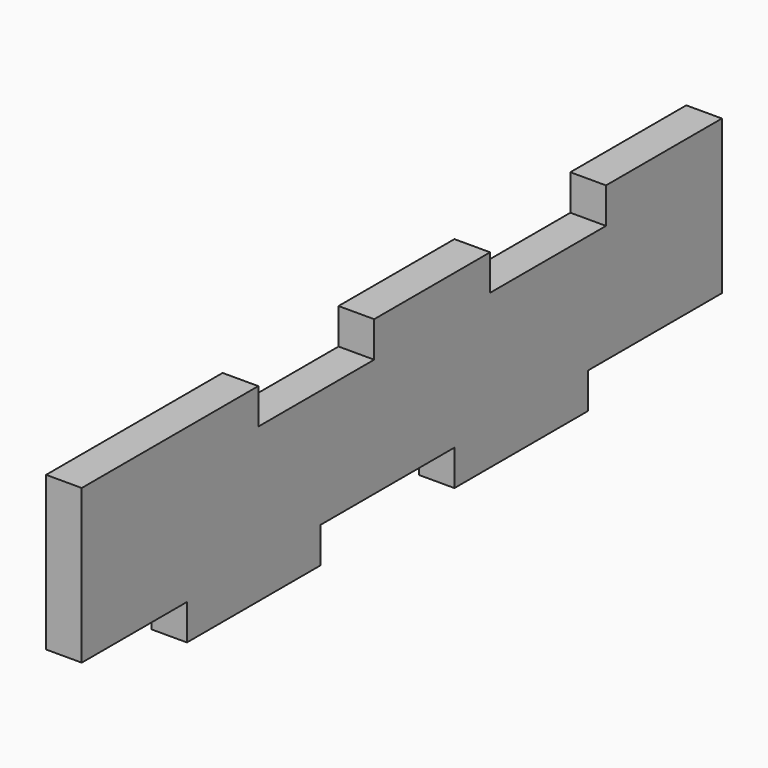
from build123d import *

# Parameters (mm, degrees)
F1_DEPTH = 1.6


with BuildPart() as f1:
    # F0 (on Right) → F1 (new body, symmetric)
    with BuildSketch(Plane.YZ):
        Polygon((7.5, -6), (22.5, -6), (22.5, -2.8), (37.5, -2.8), (37.5, 11), (24.5, 11), (24.5, 7.8), (11.5, 7.8), (11.5, 11), (-1.5, 11), (-1.5, 7.8), (-14.5, 7.8), (-14.5, 11), (-34.3, 11), (-34.3, 4.1), (-34.3, -0.9), (-34.3, -2.8), (-22.5, -2.8), (-22.5, -6), (-7.5, -6), (-7.5, -2.8), (7.5, -2.8), align=None)
    extrude(amount=F1_DEPTH, both=True)


solid = f1.part
